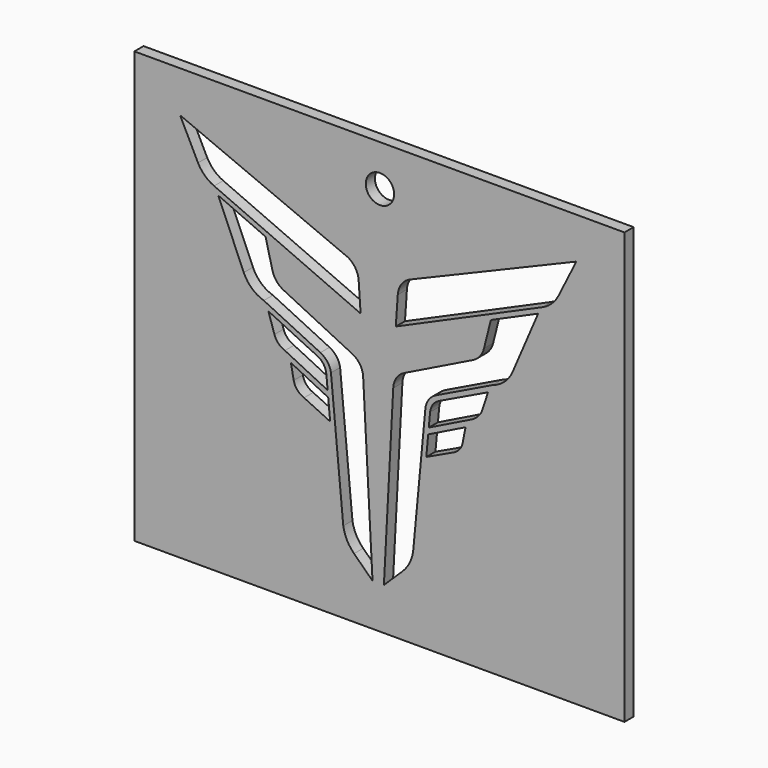
from build123d import *

# Parameters (mm, degrees)
F0_W     = 135.844321
F0_H     = 119.439393
F0_R     = 3.928948
F1_DEPTH = 3.175


with BuildPart() as f1:
    # F0 (on Front) → F1 (new body)
    with BuildSketch(Plane.XZ):
        with Locations((-0.1439, -0.287805)):
            Rectangle(F0_W, F0_H)
        with BuildLine():
            ThreePointArc((-29.807343, 18.468175), (-28.582141, 16.081301), (-26.429293, 14.480198))
            Line((-26.429293, 14.480198), (-7.662621, 5.260653))
            ThreePointArc((-7.662621, 5.260653), (-5.518637, 3.359962), (-4.649718, 0.629711))
            Line((-4.649718, 0.629711), (-2.057, -48.290063))
            Line((-2.057, -48.290063), (-7.175708, -43.31376))
            ThreePointArc((-7.175708, -43.31376), (-9.143765, -40.655263), (-10.161512, -37.508033))
            Line((-10.161512, -37.508033), (-13.576837, -1.267302))
            ThreePointArc((-13.576837, -1.267302), (-14.554027, 1.073816), (-16.506048, 2.694107))
            Line((-16.506048, 2.694107), (-32.200131, 10.304551))
            ThreePointArc((-32.200131, 10.304551), (-35.515317, 12.21133), (-37.736381, 15.324711))
            Line((-37.736381, 15.324711), (-44.81605, 31.835902))
            Line((-44.81605, 31.835902), (-31.704345, 26.033275))
            Line((-31.704345, 26.033275), (-29.807343, 18.468175))
        make_face(mode=Mode.SUBTRACT)
        with BuildLine():
            Line((-13.802066, -13.22779), (-21.039478, -9.79677))
            ThreePointArc((-21.039478, -9.79677), (-22.903777, -8.514454), (-23.892581, -6.47921))
            Line((-23.892581, -6.47921), (-24.688794, -2.431786))
            Line((-24.688794, -2.431786), (-14.338005, -7.540829))
            Line((-14.338005, -7.540829), (-13.802066, -13.22779))
        make_face(mode=Mode.SUBTRACT)
        with BuildLine():
            Line((12.839452, -13.22779), (13.375391, -7.540829))
            Line((13.375391, -7.540829), (23.72618, -2.431786))
            Line((23.72618, -2.431786), (22.929966, -6.47921))
            ThreePointArc((22.929966, -6.47921), (21.941163, -8.514454), (20.076863, -9.79677))
            Line((20.076863, -9.79677), (12.839452, -13.22779))
        make_face(mode=Mode.SUBTRACT)
        with BuildLine():
            Line((28.844729, 18.468175), (30.741731, 26.033275))
            Line((30.741731, 26.033275), (43.853436, 31.835902))
            Line((43.853436, 31.835902), (36.773767, 15.324711))
            ThreePointArc((36.773767, 15.324711), (34.552703, 12.21133), (31.237517, 10.304551))
            Line((31.237517, 10.304551), (15.543434, 2.694107))
            ThreePointArc((15.543434, 2.694107), (13.591413, 1.073816), (12.614223, -1.267302))
            Line((12.614223, -1.267302), (9.198898, -37.508033))
            ThreePointArc((9.198898, -37.508033), (8.181151, -40.655263), (6.213094, -43.31376))
            Line((6.213094, -43.31376), (1.094386, -48.290063))
            Line((1.094386, -48.290063), (3.687104, 0.629711))
            ThreePointArc((3.687104, 0.629711), (4.556023, 3.359962), (6.700007, 5.260653))
            Line((6.700007, 5.260653), (25.466679, 14.480198))
            ThreePointArc((25.466679, 14.480198), (27.619527, 16.081301), (28.844729, 18.468175))
        make_face(mode=Mode.SUBTRACT)
        with BuildLine():
            Line((-14.86299, -1.936826), (-14.496261, -5.828259))
            Line((-14.496261, -5.828259), (-26.339526, 0))
            ThreePointArc((-26.339526, 0), (-28.137196, 1.156182), (-29.242004, 2.985873))
            Line((-29.242004, 2.985873), (-30.915839, 8.118966))
            Line((-30.915839, 8.118966), (-17.167176, 1.508898))
            ThreePointArc((-17.167176, 1.508898), (-15.579334, 0.077425), (-14.86299, -1.936826))
        make_face(mode=Mode.SUBTRACT)
        with BuildLine():
            Line((-55.391539, 47.974437), (-8.917583, 28.452374))
            ThreePointArc((-8.917583, 28.452374), (-6.807946, 26.517815), (-5.902764, 23.802353))
            Line((-5.902764, 23.802353), (-5.359739, 15.865128))
            Line((-5.359739, 15.865128), (-45.966676, 33.779953))
            ThreePointArc((-45.966676, 33.779953), (-48.552315, 35.492047), (-50.422042, 37.966095))
            Line((-50.422042, 37.966095), (-55.391539, 47.974437))
        make_face(mode=Mode.SUBTRACT)
        with BuildLine():
            Line((25.376912, 0), (13.533647, -5.828259))
            Line((13.533647, -5.828259), (13.900376, -1.936826))
            ThreePointArc((13.900376, -1.936826), (14.61672, 0.077425), (16.204562, 1.508898))
            Line((16.204562, 1.508898), (29.953225, 8.118966))
            Line((29.953225, 8.118966), (28.27939, 2.985873))
            ThreePointArc((28.27939, 2.985873), (27.086145, 1.242148), (25.376912, 0))
        make_face(mode=Mode.SUBTRACT)
        with BuildLine():
            ThreePointArc((49.459428, 37.966095), (47.589701, 35.492047), (45.004062, 33.779953))
            Line((45.004062, 33.779953), (4.397125, 15.865128))
            Line((4.397125, 15.865128), (4.94015, 23.802353))
            ThreePointArc((4.94015, 23.802353), (5.845332, 26.517815), (7.954969, 28.452374))
            Line((7.954969, 28.452374), (54.428925, 47.974437))
            Line((54.428925, 47.974437), (49.459428, 37.966095))
        make_face(mode=Mode.SUBTRACT)
        with Locations((0, 47.974437)):
            Circle(F0_R, mode=Mode.SUBTRACT)
    extrude(amount=F1_DEPTH)


solid = f1.part
